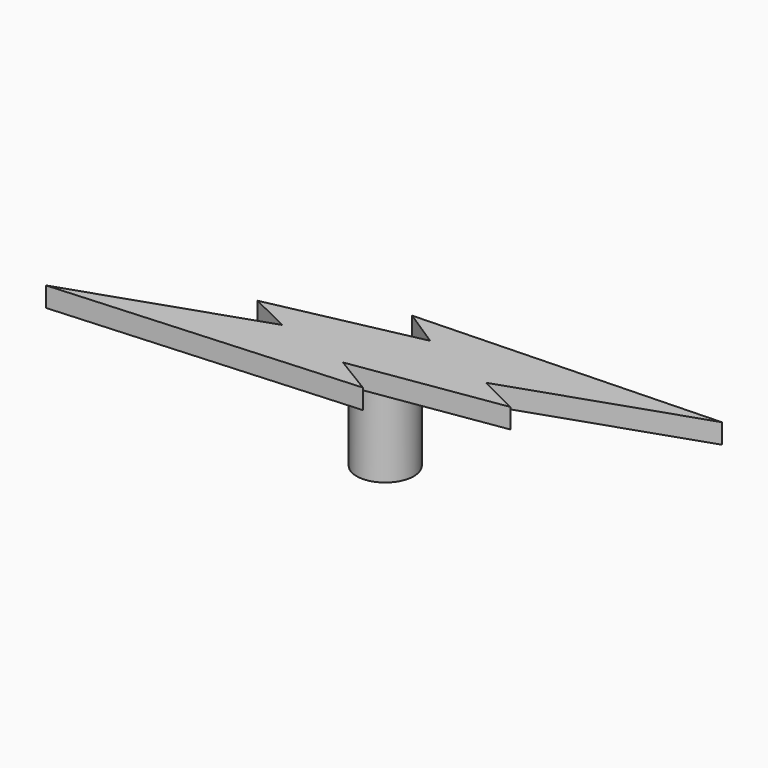
from build123d import *

# Parameters (mm, degrees)
F1_DEPTH = 0.79375
F2_R     = 1.143
F3_DEPTH = 3.175


with BuildPart() as f1:
    # F0 (on Top) → F1 (new body)
    with BuildSketch(Plane.XY):
        Polygon((-3.694733, -0.532274), (-11.121529, -3.050923), (0.917868, -2.265335), (-0.629036, -1.326035), (5.333522, -0.410084), (3.710639, 0.39082), (11.137434, 2.90947), (-0.920518, 2.497154), (0.583968, 1.518577), (-5.317616, 0.26863), align=None)
    extrude(amount=F1_DEPTH)

    # F2 (on face) → F3 (join)
    with BuildSketch(Plane.XY):
        Circle(F2_R)
    extrude(amount=-F3_DEPTH)


solid = f1.part
